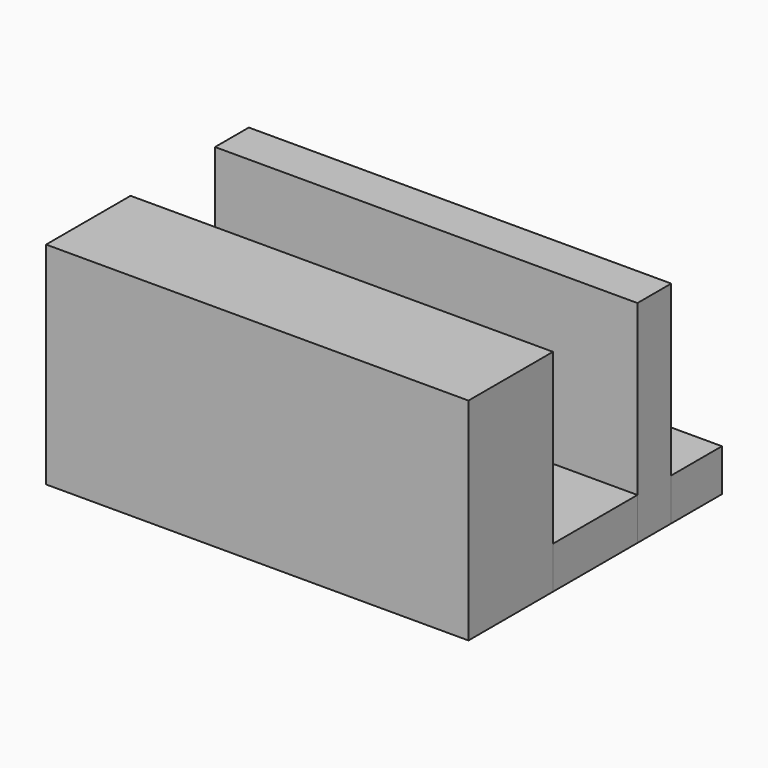
from build123d import *

# Parameters (mm, degrees)
BOX_W        = 20
BOX_H        = 5
BOX_DEPTH    = 10
BOX001_W     = 20
BOX001_H     = 10
BOX001_DEPTH = 2
BOX002_W     = 20
BOX002_H     = 2
BOX002_DEPTH = 10


with BuildPart() as cube:
    # Box → Box (new body)
    with BuildSketch(Plane.XY):
        with Locations((10, 2.5)):
            Rectangle(BOX_W, BOX_H)
    extrude(amount=BOX_DEPTH)


with BuildPart() as cube001:
    # Box001 → Box001 (new body)
    with BuildSketch(Plane(origin=(0, 5, 0), x_dir=(1, 0, 0), z_dir=(0, 0, 1))):
        with Locations((10, 5)):
            Rectangle(BOX001_W, BOX001_H)
    extrude(amount=BOX001_DEPTH)


with BuildPart() as cube002:
    # Box002 → Box002 (new body)
    with BuildSketch(Plane(origin=(0, 10, 0), x_dir=(1, 0, 0), z_dir=(0, 0, 1))):
        with Locations((10, 1)):
            Rectangle(BOX002_W, BOX002_H)
    extrude(amount=BOX002_DEPTH)


solid = Compound([cube.part, cube001.part, cube002.part])
